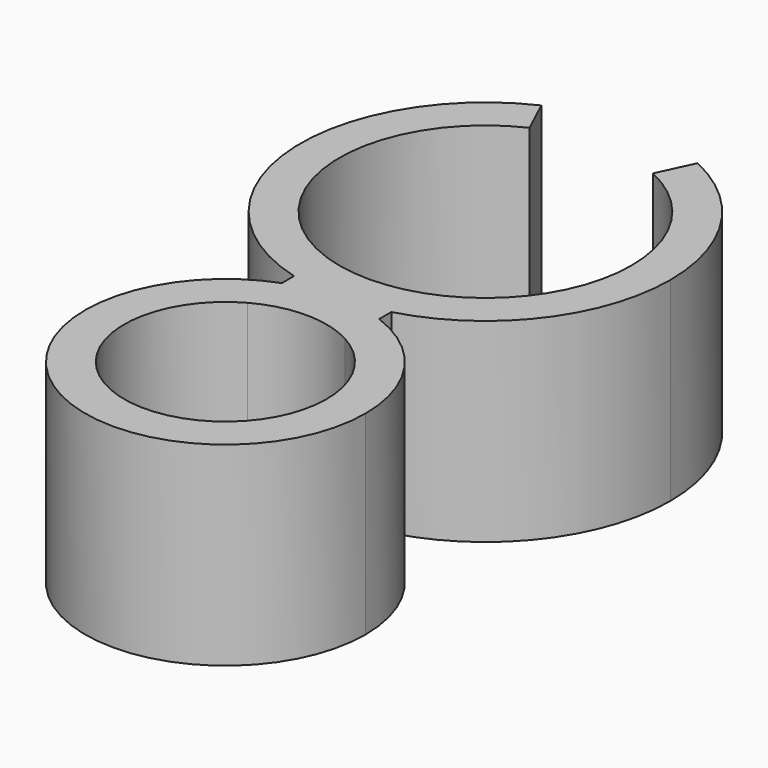
from build123d import *

# Parameters (mm, degrees)
F1_DEPTH = 10


with BuildPart() as f1:
    # F0 (on Top) → F1 (new body)
    with BuildSketch(Plane.XY):
        with BuildLine():
            ThreePointArc((2.5, 4.5596052461), (4.4743714642, 2.6495282599), (5.2, 0))
            ThreePointArc((5.2, 0), (-2.6495282599, -4.4743714642), (-2.5, 4.5596052461))
            Line((-2.5, 4.5596052461), (-2.5, 6.7520367298))
            ThreePointArc((-2.5, 6.7520367298), (-4.1133927602, -5.9093146811), (7.2, 0))
            ThreePointArc((7.2, 0), (5.9093146811, 4.1133927602), (2.5, 6.7520367298))
            Line((2.5, 6.7520367298), (2.5, 4.5596052461))
        make_face()
        with BuildLine():
            ThreePointArc((-4.53e-08, 7.2), (1.2699085464, 7.0871244016), (2.5, 6.7520367298))
            Line((2.5, 6.7520367298), (2.5, 7.5348486101))
            ThreePointArc((2.5, 7.5348486101), (1.261162496, 7.2840842634), (-4.53e-08, 7.2))
        make_face()
        with BuildLine():
            Line((-2.5, 7.5348486101), (-2.5, 6.7520367298))
            ThreePointArc((-2.5, 6.7520367298), (-1.269908591, 7.0871243936), (-4.53e-08, 7.2))
            ThreePointArc((-4.53e-08, 7.2), (-1.2611625409, 7.2840842694), (-2.5, 7.5348486101))
        make_face()
        with BuildLine():
            Line((2.5, 9.6289321881), (2.5, 7.5348486101))
            ThreePointArc((2.5, 7.5348486101), (7.5498344353, 10.9337187027), (9.5, 16.7))
            ThreePointArc((9.5, 16.7), (8.0122187352, 21.8043462793), (4.0148734865, 25.3099239768))
            Line((4.0148734865, 25.3099239768), (3.1696369631, 23.4973084028))
            ThreePointArc((3.1696369631, 23.4973084028), (6.3254358436, 20.7297470626), (7.5, 16.7))
            ThreePointArc((7.5, 16.7), (6.123724357, 12.3698729811), (2.5, 9.6289321881))
        make_face()
        with BuildLine():
            ThreePointArc((-2.5, 4.5596052461), (0, 5.2), (2.5, 4.5596052461))
            Line((2.5, 4.5596052461), (2.5, 6.7520367298))
            ThreePointArc((2.5, 6.7520367298), (1.2699085464, 7.0871244016), (-4.53e-08, 7.2))
            ThreePointArc((-4.53e-08, 7.2), (-1.269908591, 7.0871243936), (-2.5, 6.7520367298))
            Line((-2.5, 6.7520367298), (-2.5, 4.5596052461))
        make_face()
        with BuildLine():
            ThreePointArc((-2.5, 7.5348486101), (-1.2611625409, 7.2840842694), (-4.53e-08, 7.2))
            ThreePointArc((-4.53e-08, 7.2), (1.261162496, 7.2840842634), (2.5, 7.5348486101))
            Line((2.5, 7.5348486101), (2.5, 9.6289321881))
            ThreePointArc((2.5, 9.6289321881), (0, 9.2), (-2.5, 9.6289321881))
            Line((-2.5, 9.6289321881), (-2.5, 7.5348486101))
        make_face()
        with BuildLine():
            ThreePointArc((-4.0148734865, 25.3099239768), (-9.4656864627, 15.8932907648), (-2.5, 7.5348486101))
            Line((-2.5, 7.5348486101), (-2.5, 9.6289321881))
            ThreePointArc((-2.5, 9.6289321881), (-7.4912722905, 16.3382826116), (-3.1696369631, 23.4973084028))
            Line((-3.1696369631, 23.4973084028), (-4.0148734865, 25.3099239768))
        make_face()
    extrude(amount=F1_DEPTH)


solid = f1.part
